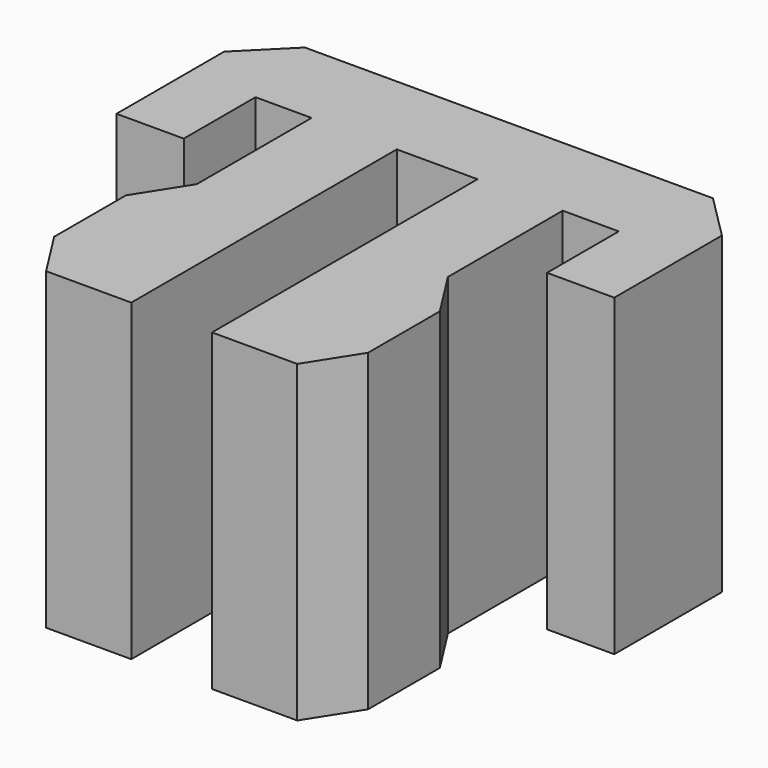
from build123d import *

# Parameters (mm, degrees)
F1_DEPTH = 7
F2_SIZE  = 1


with BuildPart() as f1:
    # F0 (on Top) → F1 (new body)
    with BuildSketch(Plane.XY):
        Polygon((-0.9, -7.4), (-0.9, 0), (-2.8, 0), (-2.8, -3.200004), (-2.8, -7.4), align=None)
        Polygon((-2.8, 0), (-0.9, 0), (0.9, 0), (2.8, 0), (4.05, 0), (4.05, -2), (5.55, -2), (5.55, 2), (0, 2), (-5.55, 2), (-5.55, -2), (-4.05, -2), (-4.05, 0), align=None)
        Polygon((2.8, 0), (0.9, 0), (0.9, -7.4), (2.8, -7.4), (2.8, -3.200004), align=None)
        Polygon((-2.8, -7.4), (-2.8, -3.200004), (-3.5, -4.300002), (-3.5, -6.300002), align=None)
        Polygon((2.8, -3.200004), (2.8, -7.4), (3.5, -6.300002), (3.5, -4.300002), align=None)
    extrude(amount=F1_DEPTH)

    # F2
    f2_edges = [f1.edges().sort_by_distance(p)[0] for p in [
        (-5.55, 2, 3.5),
        (5.55, 2, 3.5),
    ]]
    chamfer(f2_edges, length=F2_SIZE)


solid = f1.part
